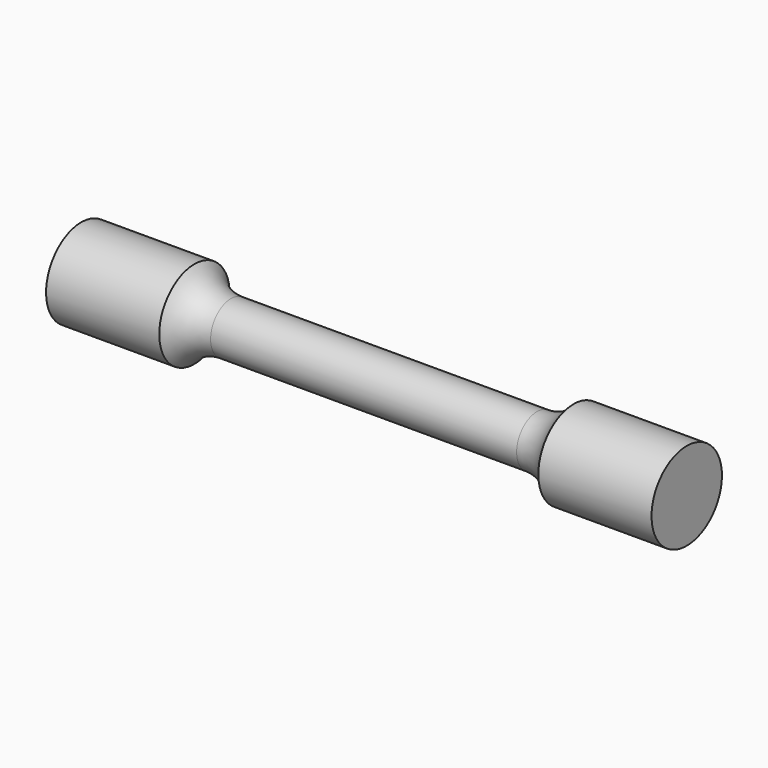
from build123d import *


with BuildPart() as f1:
    # F0 (on Front) → F1 (revolve)
    with BuildSketch(Plane.XZ):
        with BuildLine():
            Line((27, 4.5), (0, 4.5))
            Line((0, 4.5), (-27, 4.5))
            ThreePointArc((-27, 4.5), (-30.612913, 5.362293), (-33.446979, 7.763286))
            Line((-33.446979, 7.763286), (-53.424399, 7.763286))
            Line((-53.424399, 7.763286), (-53.424399, 0))
            Line((-53.424399, 0), (0, 0))
            Line((0, 0), (53.424399, 0))
            Line((53.424399, 0), (53.424399, 7.763286))
            Line((53.424399, 7.763286), (33.446979, 7.763286))
            ThreePointArc((33.446979, 7.763286), (30.612913, 5.362293), (27, 4.5))
        make_face()
    revolve(axis=Axis((-26.7122, 0, 0), (1, 0, 0)))


solid = f1.part
